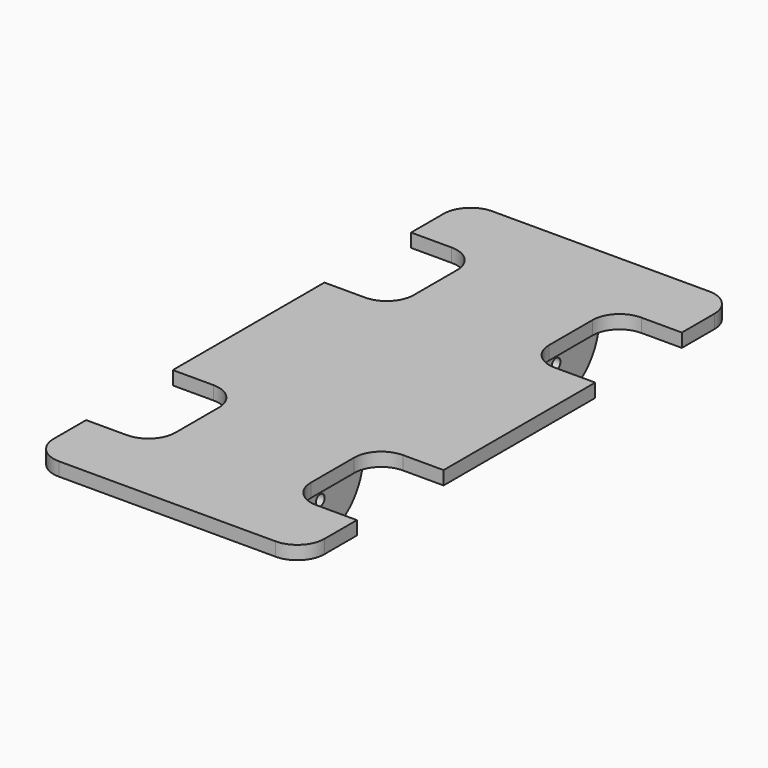
from build123d import *

# Parameters (mm, degrees)
F1_DEPTH = 2.54
F2_R     = 5.08
F3_R     = 1.0232120847
F4_DEPTH = 10.16


with BuildPart() as f1:
    # F0 (on Top) → F1 (new body)
    with BuildSketch(Plane.XY):
        Polygon((-25.4, -50.8), (25.4, -50.8), (25.4, -38.1), (12.7, -38.1), (12.7, -17.78), (25.4, -17.78), (25.4, 17.78), (12.7, 17.78), (12.7, 38.1), (25.4, 38.1), (25.4, 50.8), (-25.4, 50.8), (-25.4, 38.1), (-12.7, 38.1), (-12.7, 17.78), (-25.4, 17.78), (-25.4, -17.78), (-12.7, -17.78), (-12.7, -38.1), (-25.4, -38.1), align=None)
    extrude(amount=F1_DEPTH)

    # F2
    f2_edges = [f1.edges().sort_by_distance(p)[0] for p in [
        (25.4, 50.8, 1.27),
        (-25.4, 50.8, 1.27),
        (25.4, -50.8, 1.27),
        (-25.4, -50.8, 1.27),
        (-12.7, -17.78, 1.27),
        (-12.7, -38.1, 1.27),
        (-12.7, 17.78, 1.27),
        (-12.7, 38.1, 1.27),
        (12.7, 38.1, 1.27),
        (12.7, 17.78, 1.27),
        (12.7, -17.78, 1.27),
        (12.7, -38.1, 1.27),
    ]]
    fillet(f2_edges, radius=F2_R)

    # F3 (on Right) → F4 (join, symmetric)
    with BuildSketch(Plane.YZ):
        with BuildLine():
            Line((37.7684151684, 0), (17.5400050426, 0))
            ThreePointArc((17.5400050426, 0), (27.6542101055, -10.1142050629), (37.7684151684, 0))
        make_face()
        with Locations((27.6542101055, -3.3981921151)):
            Circle(F3_R, mode=Mode.SUBTRACT)
        with BuildLine():
            ThreePointArc((-37.7684151684, 0), (-27.6542101055, -10.1142050629), (-17.5400050426, 0))
            Line((-17.5400050426, 0), (-37.7684151684, 0))
        make_face()
        with Locations((-27.6542101055, -3.3981921151)):
            Circle(F3_R, mode=Mode.SUBTRACT)
    extrude(amount=F4_DEPTH, both=True)


solid = f1.part
